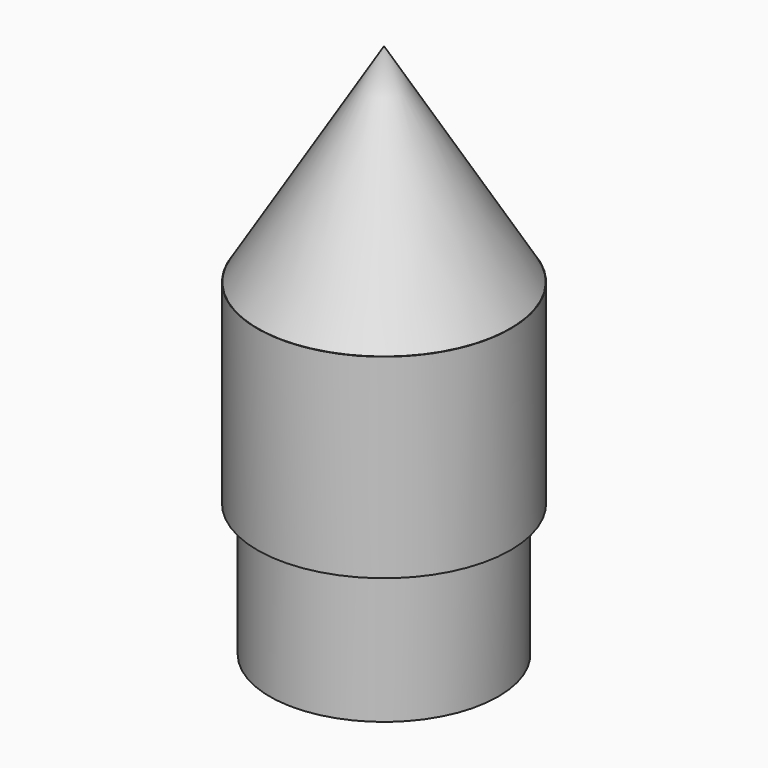
from build123d import *

# Parameters (mm, degrees)
F0_R      = 21.435
F1_DEPTH  = 33
F3_D      = 38.7
F5_R      = 19.35
F5_R_2    = 17.30612453
F6_DEPTH  = 22.5
F9_R      = 30.1459456729
F9_R_2    = 21.435
F10_DEPTH = 71.5


with BuildPart() as f1:
    # F0 (on Top) → F1 (new body)
    with BuildSketch(Plane.XY):
        Circle(F0_R)
    extrude(amount=F1_DEPTH)

    # F3 (through all)
    with Locations(Plane(origin=(0, 0, 0), x_dir=(1, 0, 0), z_dir=(0, 0, -1))):
        with Locations((0, 0)):
            Hole(F3_D / 2)

    # F9 (on face) → F10 (cut)
    with BuildSketch(Plane.XY.offset(33)):
        Circle(F9_R)
        Circle(F9_R_2, mode=Mode.SUBTRACT)
    extrude(amount=-F10_DEPTH, mode=Mode.SUBTRACT)


with BuildPart() as f6:
    # F5 (on Top) → F6 (new body)
    with BuildSketch(Plane.XY):
        Circle(F5_R)
        Circle(F5_R_2, mode=Mode.SUBTRACT)
    extrude(amount=-F6_DEPTH)


with BuildPart() as f8:
    # F7 (on Front) → F8 (revolve)
    with BuildSketch(Plane.XZ):
        Polygon((0, 68.1551247835), (-21.3802363724, 33.0190360546), (0, 33.0190360546), align=None)
    revolve(axis=Axis((0, 0, 16.2957850844), (0, 0, 1)))


solid = Compound([f1.part, f6.part, f8.part])
